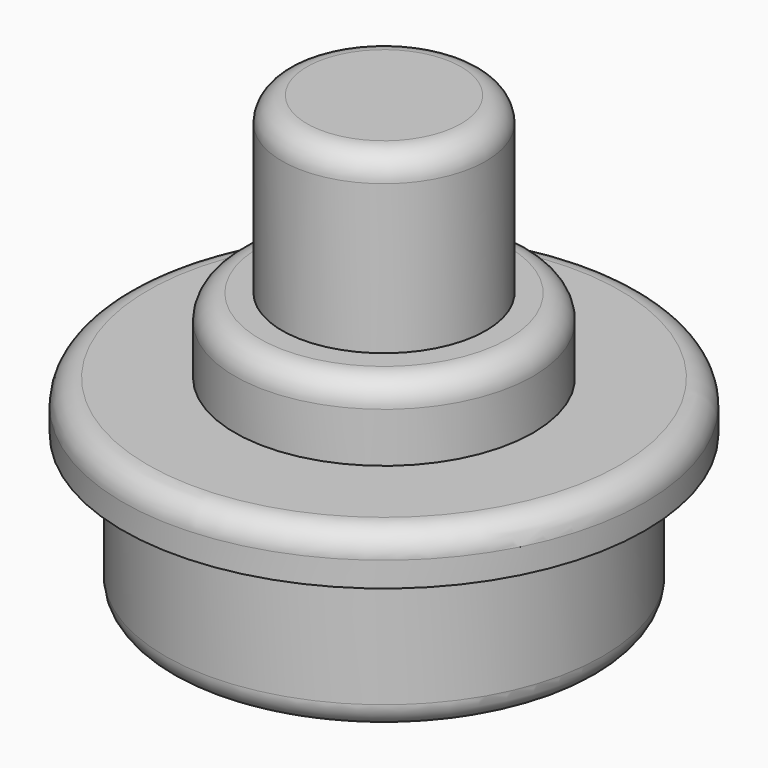
from build123d import *

# Parameters (mm, degrees)
F0_R     = 8.8
F1_DEPTH = 8
F2_R     = 6
F3_DEPTH = 3
F4_R     = 4.1
F5_DEPTH = 7
F6_R     = 10.5
F6_R_2   = 8.8
F7_DEPTH = 2
F8_R     = 1


with BuildPart() as f1:
    # F0 (on Top) → F1 (new body)
    with BuildSketch(Plane.XY):
        Circle(F0_R)
    extrude(amount=F1_DEPTH)

    # F2 (on face) → F3 (join)
    with BuildSketch(Plane.XY.offset(8)):
        Circle(F2_R)
    extrude(amount=F3_DEPTH)

    # F4 (on face) → F5 (join)
    with BuildSketch(Plane.XY.offset(11)):
        Circle(F4_R)
    extrude(amount=F5_DEPTH)

    # F6 (on face) → F7 (join)
    with BuildSketch(Plane.XY.offset(8)):
        Circle(F6_R)
        Circle(F6_R_2, mode=Mode.SUBTRACT)
    extrude(amount=-F7_DEPTH)

    # F8
    f8_edges = [f1.edges().sort_by_distance(p)[0] for p in [
        (-4.1, 0, 18),
        (-6, 0, 11),
        (-10.5, 0, 8),
        (-8.8, 0, 0),
    ]]
    fillet(f8_edges, radius=F8_R)


solid = f1.part
